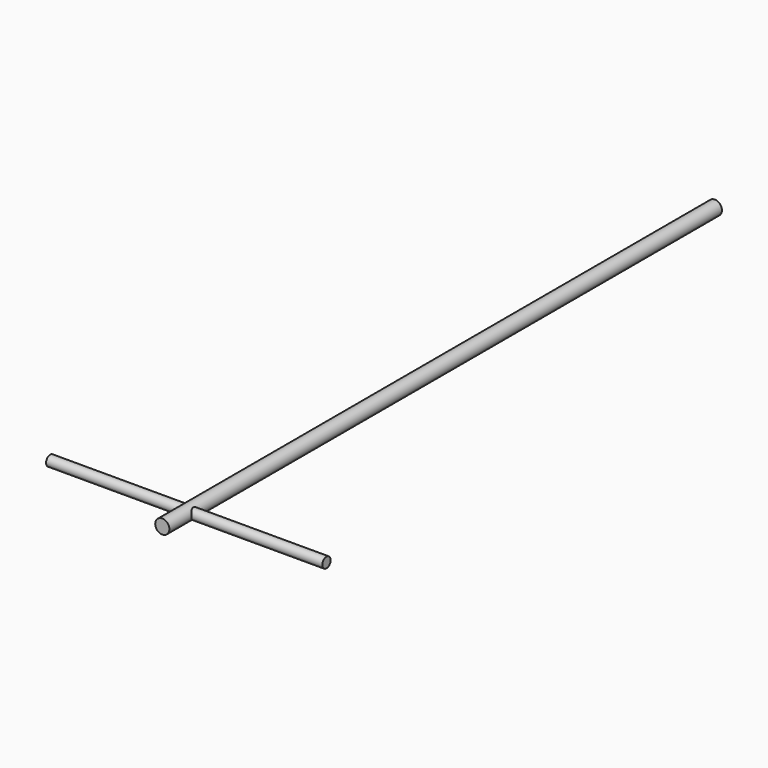
from build123d import *

# Parameters (mm, degrees)
F1_DEPTH      = 127
F1_DEPTH_BACK = 127
F4_DEPTH      = 50.8
F4_DEPTH_BACK = 50.8


with BuildPart() as f1:
    # F0 (on Front) → F1 (new body, two sides)
    with BuildSketch(Plane.XZ) as f1_sk:
        with BuildLine():
            Line((0, -2.6035), (0, 2.6035))
            ThreePointArc((0, 2.6035), (-2.6035, 0), (0, -2.6035))
        make_face()
    extrude(amount=F1_DEPTH)
    extrude(f1_sk.sketch, amount=-F1_DEPTH_BACK)

    # F3: F1 across plane


with BuildPart() as f1_1:
    add(f1.part)
    add(f1.part.mirror(Plane.YZ))

    # F2 (on face) → F4 (join, two sides)
    with BuildSketch(Plane.YZ) as f4_sk:
        with BuildLine():
            Line((-116.9321797776, 0), (-113.1221797776, 0))
            ThreePointArc((-113.1221797776, 0), (-115.0271797776, 1.905), (-116.9321797776, 0))
        make_face()
        with BuildLine():
            ThreePointArc((-116.9321797776, 0), (-115.0271797776, -1.905), (-113.1221797776, 0))
            Line((-113.1221797776, 0), (-116.9321797776, 0))
        make_face()
    extrude(amount=F4_DEPTH)
    extrude(f4_sk.sketch, amount=-F4_DEPTH_BACK)


solid = f1_1.part
